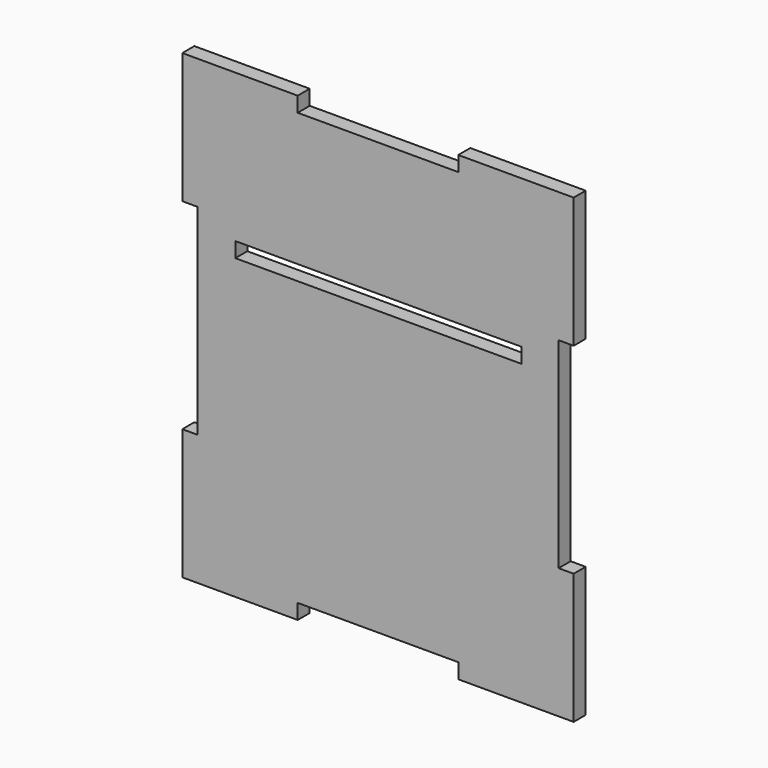
from build123d import *

# Parameters (mm, degrees)
F0_W     = 20
F0_H     = 3
F0_W_2   = 57
F0_W_3   = 3
F0_H_2   = 20
F0_W_4   = 32
F1_DEPTH = 3


with BuildPart() as f1:
    # F0 (on Front) → F1 (new body)
    with BuildSketch(Plane.XZ):
        with Locations((25.9354149689, -41.4465821788)):
            Rectangle(F0_W, F0_H)
        Polygon((15.9354149689, -39.9465821788), (35.9354149689, -39.9465821788), (35.9354149689, -19.9465821788), (35.9354149689, 20.0534178212), (35.9354149689, 40.0534178212), (15.9354149689, 40.0534178212), (-16.0645850311, 40.0534178212), (-36.0645850311, 40.0534178212), (-36.0645850311, 20.0534178212), (-36.0645850311, -19.9465821788), (-36.0645850311, -39.9465821788), (-16.0645850311, -39.9465821788), align=None)
        with Locations((0, 15)):
            Rectangle(F0_W_2, F0_H, mode=Mode.SUBTRACT)
        with Locations((37.4354149689, -29.9465821788)):
            Rectangle(F0_W_3, F0_H_2)
        with Locations((37.4354149689, -41.4465821788)):
            Rectangle(F0_W_3, F0_H)
        with Locations((-0.0645850311, -41.4465821788)):
            Rectangle(F0_W_4, F0_H)
        Polygon((38.9354149689, -42.9465821788), (35.9354149689, -42.9465821788), (15.9354149689, -42.9465821788), (15.9354149689, -45.9465821788), (38.9354149689, -45.9465821788), align=None)
        with Locations((-26.0645850311, -41.4465821788)):
            Rectangle(F0_W, F0_H)
        with Locations((37.4354149689, 30.0534178212)):
            Rectangle(F0_W_3, F0_H_2)
        with Locations((-37.5645850311, -29.9465821788)):
            Rectangle(F0_W_3, F0_H_2)
        with Locations((-37.5645850311, -41.4465821788)):
            Rectangle(F0_W_3, F0_H)
        Polygon((-16.0645850311, -45.9465821788), (-16.0645850311, -42.9465821788), (-36.0645850311, -42.9465821788), (-39.0645850311, -42.9465821788), (-39.0645850311, -45.9465821788), align=None)
        with Locations((25.9354149689, 41.5534178212)):
            Rectangle(F0_W, F0_H)
        with Locations((37.4354149689, 41.5534178212)):
            Rectangle(F0_W_3, F0_H)
        with Locations((-0.0645850311, 41.5534178212)):
            Rectangle(F0_W_4, F0_H)
        with Locations((37.4354149689, 44.5534178212)):
            Rectangle(F0_W_3, F0_H)
        with Locations((25.9354149689, 44.5534178212)):
            Rectangle(F0_W, F0_H)
        with Locations((-37.5645850311, 30.0534178212)):
            Rectangle(F0_W_3, F0_H_2)
        with Locations((-26.0645850311, 41.5534178212)):
            Rectangle(F0_W, F0_H)
        with Locations((-37.5645850311, 41.5534178212)):
            Rectangle(F0_W_3, F0_H)
        Polygon((-36.0645850311, 43.0534178212), (-16.0645850311, 43.0534178212), (-16.0645850311, 46.0534178212), (-39.0645850311, 46.0534178212), (-39.0645850311, 43.0534178212), align=None)
    extrude(amount=F1_DEPTH)


solid = f1.part
